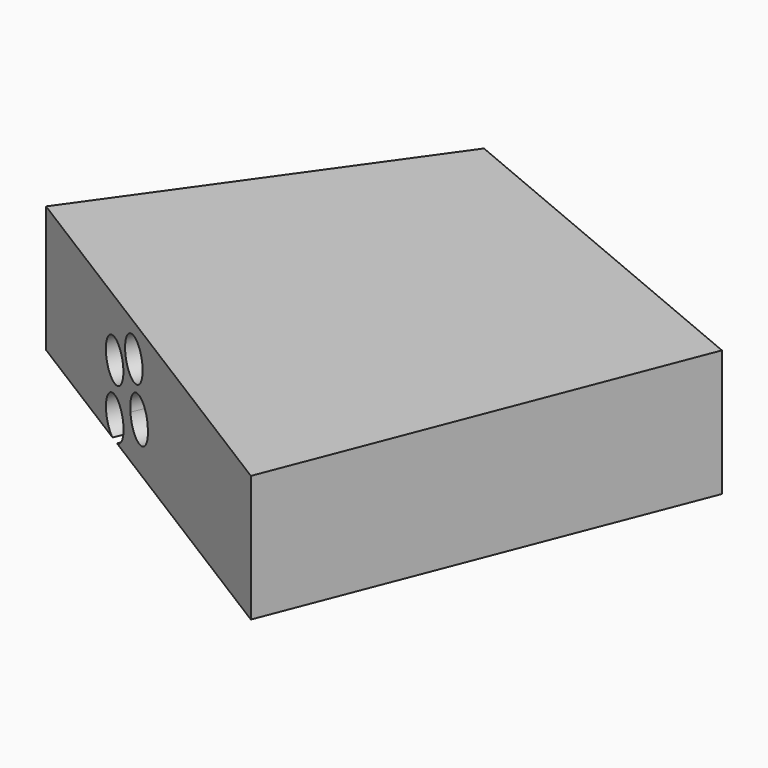
from build123d import *

# Parameters (mm, degrees)
F1_DEPTH = 15.5
F3_D     = 5


with BuildPart() as f1:
    # F0 (on Top) → F1 (new body)
    with BuildSketch(Plane.XY):
        Polygon((43.927737, 17.103516), (0, 35.560548), (-25.224611, 0), (24.978518, -31.376954), align=None)
    extrude(amount=F1_DEPTH)

    # F3 (through all)
    with Locations(Plane(origin=(12.699434, 30.224652, 0), x_dir=(-0.921927, 0.387364, 0), z_dir=(0.387364, 0.921927, 0))):
        with Locations((-3.307993, 5.584184), (3.69885, 8.621902), (-1.793694, 11.493312), (3.661461, 2.417881), (-3.266278, 5.829384)):
            Hole(F3_D / 2)


solid = f1.part
